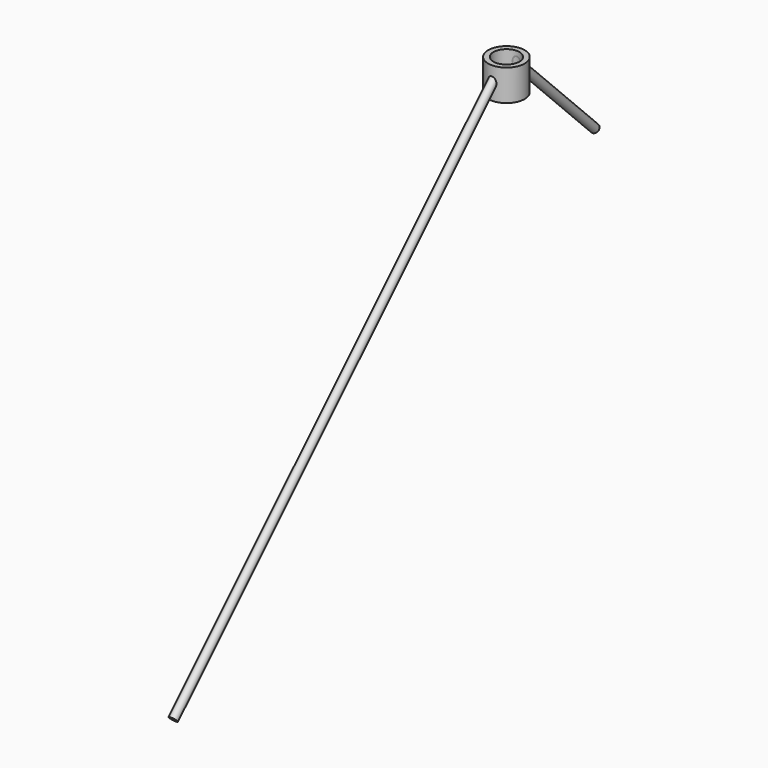
from build123d import *

# Parameters (mm, degrees)
F2_R     = 8
F2_R_2   = 7
F4_R     = 25
F5_DEPTH = 40
F7_START = -5
F6_R     = 35
F6_R_2   = 25
F7_DEPTH = 60


with BuildPart() as f3:
    # F3: sweep along a path in F0
    with BuildLine(Plane.YZ) as f3_path:
        Line((-800, -800), (0, 0))
        Line((0, 0), (212.132034356, -212.132034356))
    # F2 (on line) → F3 (sweep)
    with BuildSketch(Plane(origin=(0, -800, -800), x_dir=(1, 0, 0), z_dir=(0, -0.7071067812, -0.7071067812))):
        Circle(F2_R)
        Circle(F2_R_2, mode=Mode.SUBTRACT)
    sweep(path=f3_path.line, transition=Transition.RIGHT)

    # F4 (on Top) → F5 (cut, symmetric)
    with BuildSketch(Plane.XY):
        Circle(F4_R)
    extrude(amount=F5_DEPTH, both=True, mode=Mode.SUBTRACT)

    # F6 (on Top) → F7 (join)
    with BuildSketch(Plane.XY.offset(F7_START)):
        Circle(F6_R)
        Circle(F6_R_2, mode=Mode.SUBTRACT)
    extrude(amount=-F7_DEPTH)


solid = f3.part
